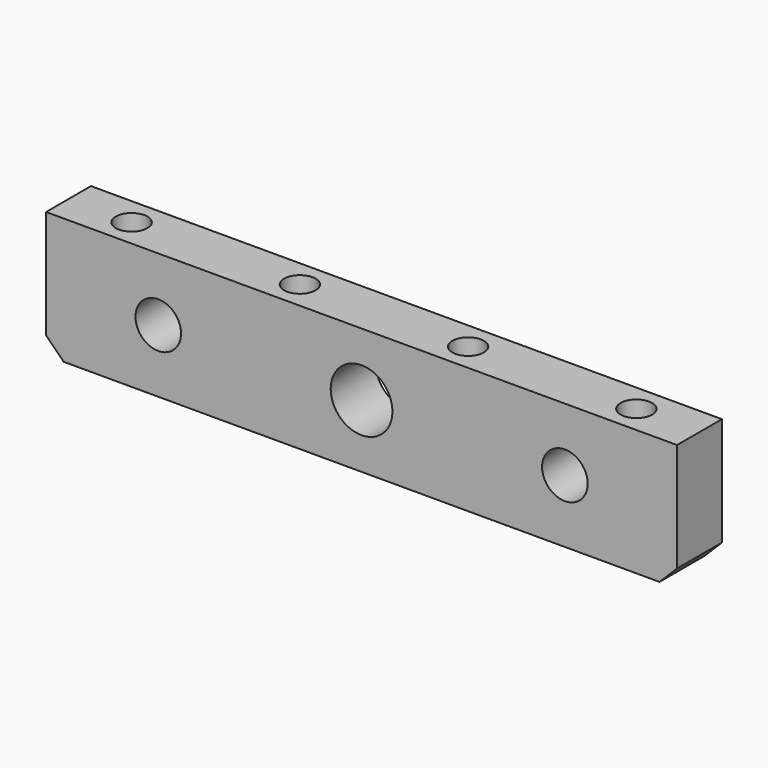
from build123d import *

# Parameters (mm, degrees)
F0_W          = 90
F0_H          = 18
F1_DEPTH      = 4
F1_DEPTH_BACK = 4
F2_SIZE       = 2.5
F4_D          = 6.5
F5_D          = 8.8
F7_D          = 4.5


with BuildPart() as f1:
    # F0 (on Front) → F1 (new body, two sides)
    with BuildSketch(Plane.XZ) as f1_sk:
        Rectangle(F0_W, F0_H)
    extrude(amount=F1_DEPTH)
    extrude(f1_sk.sketch, amount=-F1_DEPTH_BACK)

    # F2
    f2_edges = [f1.edges().sort_by_distance(p)[0] for p in [
        (-45, 0, -9),
        (45, 0, -9),
    ]]
    chamfer(f2_edges, length=F2_SIZE)

    # F4 (through all)
    with Locations(Plane.XZ.offset(4)):
        with Locations((-29, 0), (29, 0)):
            Hole(F4_D / 2)

    # F5 (through all)
    with Locations(Plane.XZ.offset(4)):
        with Locations((0, 0)):
            Hole(F5_D / 2)

    # F7 (through all)
    with Locations(Plane.XY.offset(9)):
        with Locations((-36, 0), (-12, 0), (12, 0), (36, 0)):
            Hole(F7_D / 2)


solid = f1.part
